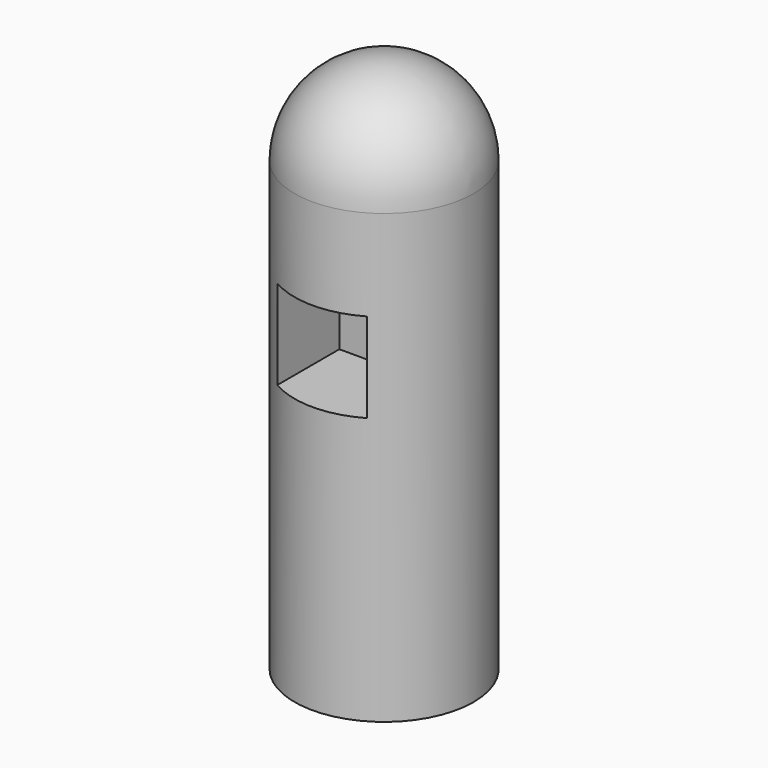
from build123d import *

# Parameters (mm, degrees)
F0_R     = 12.7
F1_DEPTH = 76.2
F2_R     = 12.7
F4_DEPTH = 50.8


with BuildPart() as f1:
    # F0 (on Top) → F1 (new body)
    with BuildSketch(Plane.XY):
        Circle(F0_R)
    extrude(amount=F1_DEPTH)

    # F2
    f2_edges = [f1.edges().sort_by_distance(p)[0] for p in [
        (-12.7, 0, 76.2),
    ]]
    fillet(f2_edges, radius=F2_R)

    # F3 (on Front) → F4 (cut)
    with BuildSketch(Plane.XZ):
        Polygon((-6.35, 37.873212), (0, 37.873212), (6.35, 37.873212), (6.35, 50.573212), (-6.35, 50.573212), align=None)
    extrude(amount=F4_DEPTH, mode=Mode.SUBTRACT)


solid = f1.part
